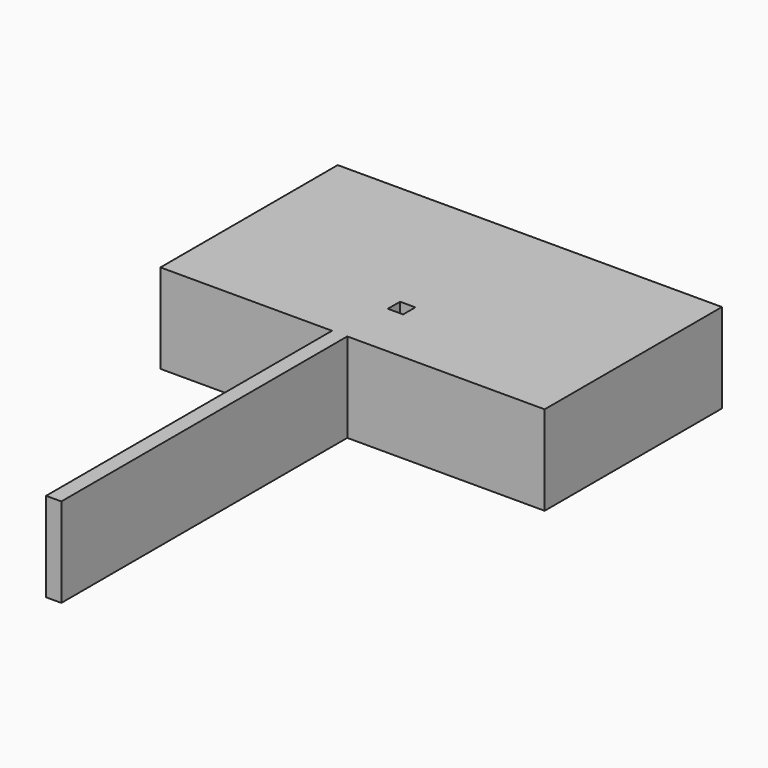
from build123d import *

# Parameters (mm, degrees)
F0_W     = 4.3434
F0_H     = 101.6
F1_DEPTH = 25.4
F2_W     = 4.3434
F2_H     = 4.3434
F3_DEPTH = 25.401


with BuildPart() as f1:
    # F0 (on Top) → F1 (new body)
    with BuildSketch(Plane.XY):
        Polygon((67.536269, 49.751887), (-41.683737, 49.751887), (-41.683737, -13.240114), (7.084264, -13.240114), (11.427664, -13.240114), (67.536269, -13.240114), align=None)
        with Locations((9.255964, -64.040114)):
            Rectangle(F0_W, F0_H)
    extrude(amount=F1_DEPTH)

    # F2 (on face) → F3 (cut, through all)
    with BuildSketch(Plane.XY.offset(25.4)):
        with Locations((12.330785, 4.937064)):
            Rectangle(F2_W, F2_H)
    extrude(amount=-F3_DEPTH, mode=Mode.SUBTRACT)


solid = f1.part
